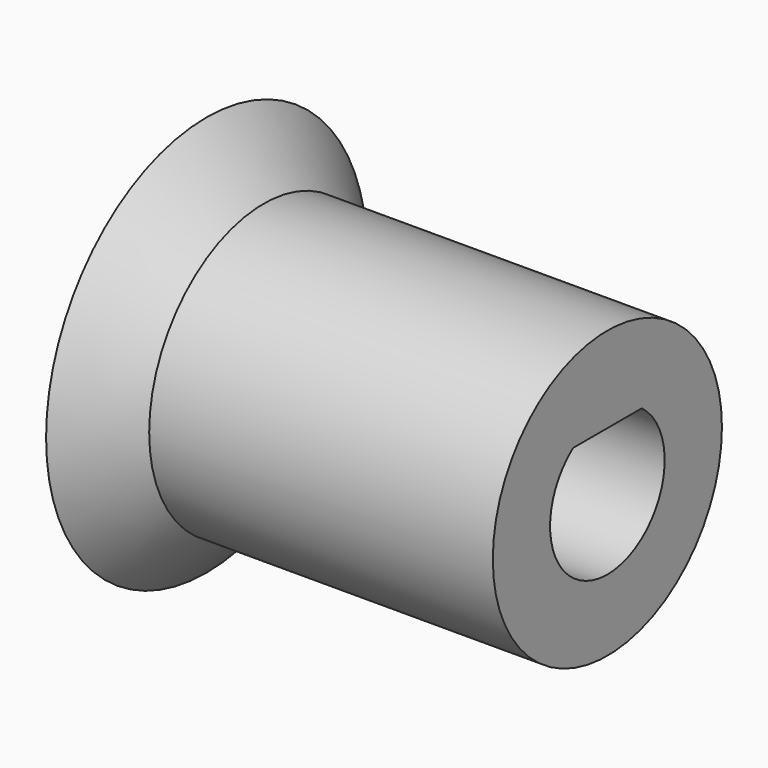
from build123d import *

# Parameters (mm, degrees)
F0_R     = 5
F1_DEPTH = 12
F3_R     = 5
F4_DEPTH = 0.6


with BuildPart() as f1:
    # F0 (on Right) → F1 (new body)
    with BuildSketch(Plane.YZ):
        Circle(F0_R)
        with BuildLine():
            ThreePointArc((1.5, 2), (0, -2.5), (-1.5, 2))
            Line((-1.5, 2), (1.5, 2))
        make_face(mode=Mode.SUBTRACT)
    extrude(amount=F1_DEPTH)

    # F3 (on face) → F4 (join)
    with BuildSketch(Plane(origin=(0, 0, 0), x_dir=(0, -1, 0), z_dir=(-1, 0, 0))):
        Circle(F3_R)
    extrude(amount=-F4_DEPTH)

    # F2 (on Top) → F5 (revolve)
    with BuildSketch(Plane.XY):
        with BuildLine():
            Line((0, 0.498465), (0, 5))
            Line((0, 5), (-2, 7))
            ThreePointArc((-2, 7), (-0.544714, 3.889288), (0, 0.498465))
        make_face()
    revolve(axis=Axis((-3.519394, 0, 0), (-1, 0, 0)))


solid = f1.part
